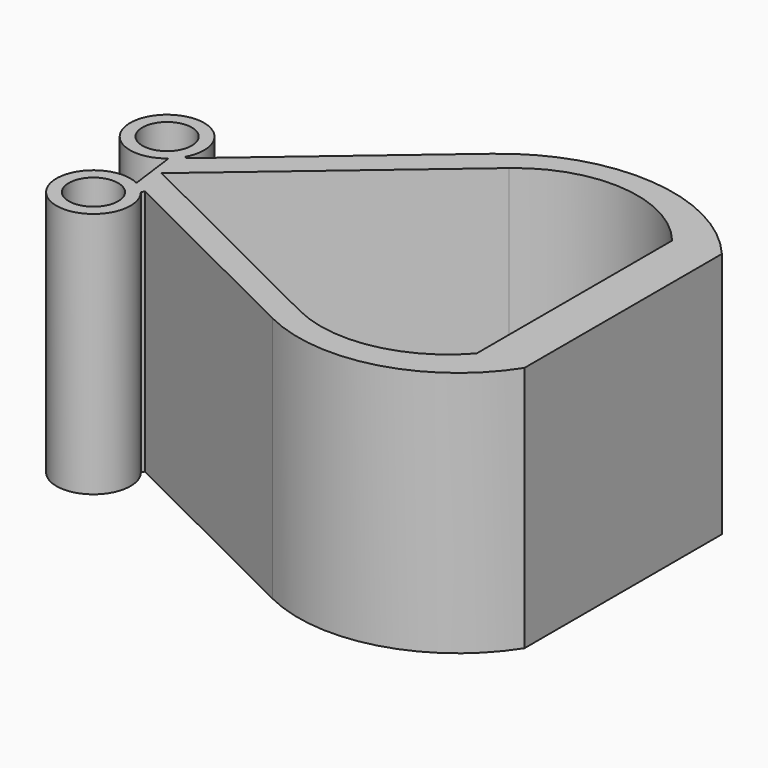
from build123d import *

# Parameters (mm, degrees)
F0_R     = 1.27
F1_DEPTH = 12.7


with BuildPart() as f1:
    # F0 (on Top) → F1 (new body)
    with BuildSketch(Plane.XY):
        with BuildLine():
            Line((-10.377137, 13.950008), (-19.704048, 5.991376))
            Line((-19.704048, 5.991376), (-19.840243, 6.027119))
            ThreePointArc((-19.840243, 6.027119), (-22.96892, 8.175731), (-20.262323, 5.515001))
            Line((-20.262323, 5.515001), (-19.940889, 3.047993))
            ThreePointArc((-19.940889, 3.047993), (-21.987273, -0.138884), (-19.299325, 2.529226))
            Line((-19.299325, 2.529226), (-19.219737, 2.689188))
            Line((-19.219737, 2.689188), (-8.325762, -2.731055))
            ThreePointArc((-8.325762, -2.731055), (-2.45421, -3.292462), (2.286, 0.217624))
            Line((2.286, 0.217624), (2.286, 12.917624))
            ThreePointArc((2.286, 12.917624), (-3.831042, 16.065173), (-10.377137, 13.950008))
        make_face()
        with Locations((-20.789479, 1.342438)):
            Circle(F0_R, mode=Mode.SUBTRACT)
        with Locations((-21.498865, 6.964135)):
            Circle(F0_R, mode=Mode.SUBTRACT)
        with BuildLine():
            Line((0, 12.573), (0, 0))
            ThreePointArc((0, 0), (-3.666775, -2.109053), (-7.859021, -1.544768))
            Line((-7.859021, -1.544768), (-19.684205, 4.338793))
            Line((-19.684205, 4.338793), (-9.057226, 13.40677))
            ThreePointArc((-9.057226, 13.40677), (-4.352798, 14.899756), (0, 12.573))
        make_face(mode=Mode.SUBTRACT)
        with BuildLine():
            Line((-10.377137, 13.950008), (-19.704048, 5.991376))
            Line((-19.704048, 5.991376), (-19.840243, 6.027119))
            ThreePointArc((-19.840243, 6.027119), (-22.96892, 8.175731), (-20.262323, 5.515001))
            Line((-20.262323, 5.515001), (-19.940889, 3.047993))
            ThreePointArc((-19.940889, 3.047993), (-21.987273, -0.138884), (-19.299325, 2.529226))
            Line((-19.299325, 2.529226), (-19.219737, 2.689188))
            Line((-19.219737, 2.689188), (-8.325762, -2.731055))
            ThreePointArc((-8.325762, -2.731055), (-2.45421, -3.292462), (2.286, 0.217624))
            Line((2.286, 0.217624), (2.286, 12.917624))
            ThreePointArc((2.286, 12.917624), (-3.831042, 16.065173), (-10.377137, 13.950008))
        make_face()
        with Locations((-20.789479, 1.342438)):
            Circle(F0_R, mode=Mode.SUBTRACT)
        with Locations((-21.498865, 6.964135)):
            Circle(F0_R, mode=Mode.SUBTRACT)
        with BuildLine():
            Line((0, 12.573), (0, 0))
            ThreePointArc((0, 0), (-3.666775, -2.109053), (-7.859021, -1.544768))
            Line((-7.859021, -1.544768), (-19.684205, 4.338793))
            Line((-19.684205, 4.338793), (-9.057226, 13.40677))
            ThreePointArc((-9.057226, 13.40677), (-4.352798, 14.899756), (0, 12.573))
        make_face(mode=Mode.SUBTRACT)
    extrude(amount=F1_DEPTH)


solid = f1.part
